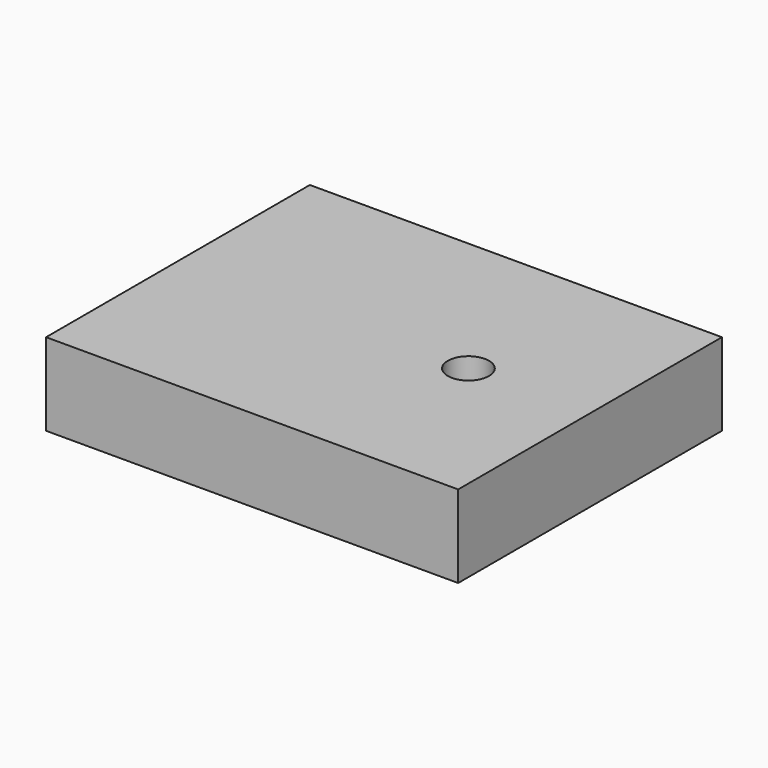
from build123d import *

# Parameters (mm, degrees)
F0_W     = 63.5
F0_H     = 50.8
F1_DEPTH = 12.7
F3_D     = 6.35
F3_DEPTH = 6.35
F3_TIP   = 1.9077324654


with BuildPart() as f1:
    # F0 (on Top) → F1 (new body)
    with BuildSketch(Plane.XY):
        Rectangle(F0_W, F0_H)
    extrude(amount=F1_DEPTH)

    # F3
    with Locations(Plane.XY.offset(12.7)):
        with Locations((13.0080394447, 0)):
            Hole(F3_D / 2, depth=F3_DEPTH)
            with Locations((0, 0, -(F3_DEPTH + F3_TIP / 2))):  # 118° drill point
                Cone(0, F3_D / 2, F3_TIP, mode=Mode.SUBTRACT)


solid = f1.part
